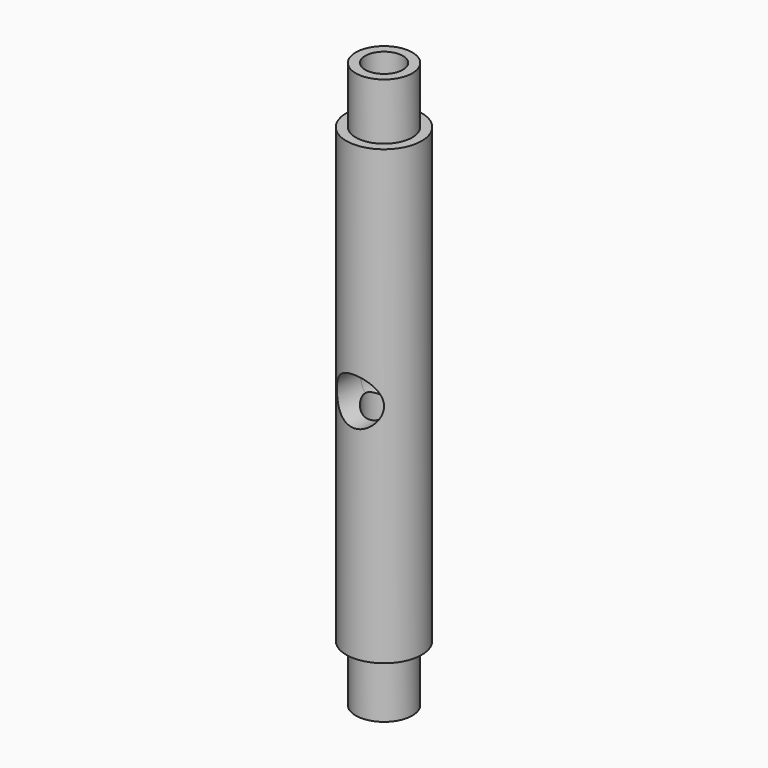
from build123d import *

# Parameters (mm, degrees)
F0_R          = 3.81
F1_DEPTH      = 7.62
F2_R          = 5.08
F3_DEPTH      = 60.96
F4_R          = 3.81
F5_DEPTH      = 7.62
F6_R          = 3.175
F7_DEPTH      = 25.4
F7_DEPTH_BACK = 25.4
F8_R          = 2.54
F9_DEPTH      = 76.201


with BuildPart() as f1:
    # F0 (on Top) → F1 (new body)
    with BuildSketch(Plane.XY):
        Circle(F0_R)
    extrude(amount=F1_DEPTH)

    # F2 (on face) → F3 (join)
    with BuildSketch(Plane.XY.offset(7.62)):
        Circle(F2_R)
    extrude(amount=F3_DEPTH)

    # F4 (on face) → F5 (join)
    with BuildSketch(Plane.XY.offset(68.58)):
        Circle(F4_R)
    extrude(amount=F5_DEPTH)

    # F6 (on Front) → F7 (cut, two sides)
    with BuildSketch(Plane.XZ) as f7_sk:
        with Locations((0, 38.1)):
            Circle(F6_R)
    extrude(amount=-F7_DEPTH, mode=Mode.SUBTRACT)
    extrude(f7_sk.sketch, amount=F7_DEPTH_BACK, mode=Mode.SUBTRACT)

    # F8 (on face) → F9 (cut, through all)
    with BuildSketch(Plane(origin=(0, 0, 0), x_dir=(1, 0, 0), z_dir=(0, 0, -1))):
        Circle(F8_R)
    extrude(amount=-F9_DEPTH, mode=Mode.SUBTRACT)


solid = f1.part
